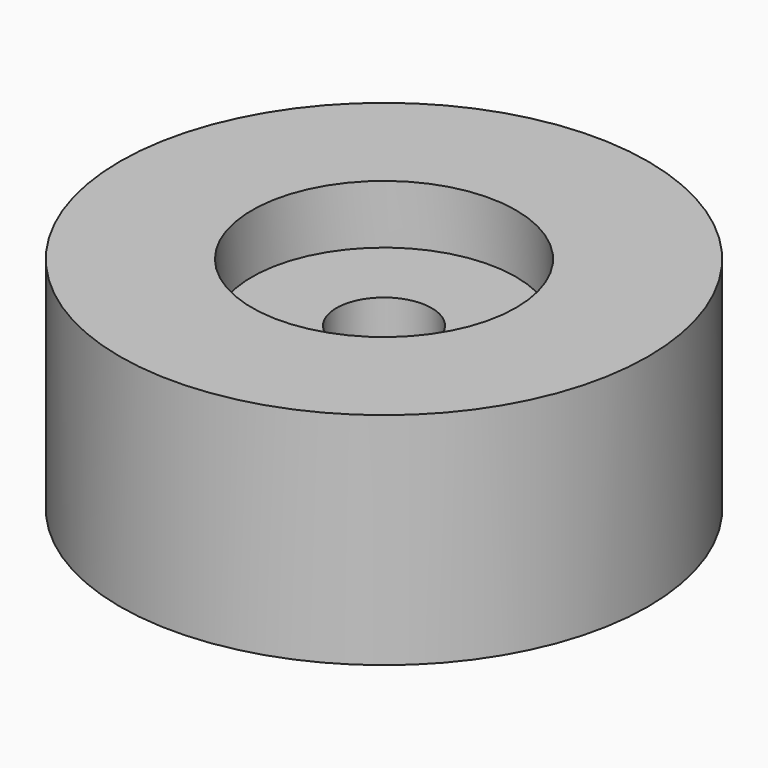
from build123d import *

# Parameters (mm, degrees)
F0_R     = 18
F1_DEPTH = 15
F2_R     = 9
F2_R_2   = 3.25
F3_DEPTH = 4
F4_DEPTH = 25


with BuildPart() as f1:
    # F0 (on Top) → F1 (new body)
    with BuildSketch(Plane.XY):
        Circle(F0_R)
    extrude(amount=F1_DEPTH)

    # F2 (on face) → F3 (cut)
    with BuildSketch(Plane.XY.offset(15)):
        Circle(F2_R)
        Circle(F2_R_2, mode=Mode.SUBTRACT)
    extrude(amount=-F3_DEPTH, mode=Mode.SUBTRACT)

    # F2 (on face) → F4 (cut)
    with BuildSketch(Plane.XY.offset(15)):
        Circle(F2_R_2)
    extrude(amount=-F4_DEPTH, mode=Mode.SUBTRACT)


solid = f1.part
